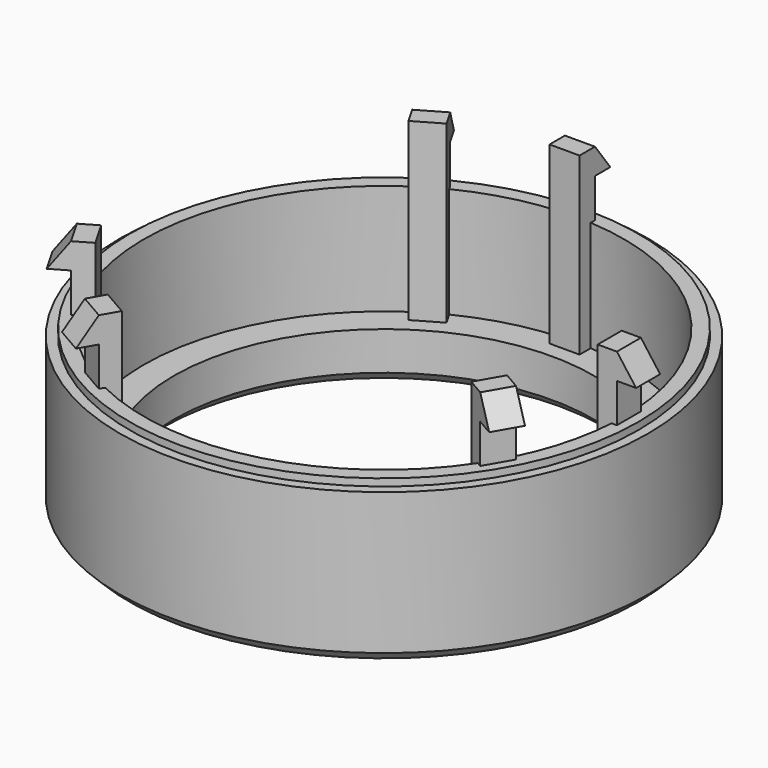
from build123d import *

# Parameters (mm, degrees)
F0_R      = 26.924
F1_DEPTH  = 16.764
F0_R_2    = 27.94
F2_DEPTH  = 16.002
F0_R_3    = 22.225
F3_DEPTH  = 5.08
F4_SIZE   = 1.016
F0_W      = 3.175
F0_H      = 1.016
F5_DEPTH  = 23.622
F7_DEPTH  = 1.5875
F8_COUNT  = 3
F9_COUNT  = 2
F9_ANGLE  = 30
F10_COUNT = 3


with BuildPart() as f1:
    # F0 (on Top) → F1 (new body)
    with BuildSketch(Plane.XY):
        Circle(F0_R)
        with BuildLine():
            ThreePointArc((1.5875, 25.3503420835), (18.5132722661, 17.3901912008), (25.4, 0))
            ThreePointArc((25.4, 0), (-17.3901912008, -18.5132722661), (-1.5875, 25.3503420835))
            Line((-1.5875, 25.3503420835), (-1.5875, 25.908))
            Line((-1.5875, 25.908), (1.5875, 25.908))
            Line((1.5875, 25.908), (1.5875, 25.3503420835))
        make_face(mode=Mode.SUBTRACT)
        with BuildLine():
            ThreePointArc((-1.5875, 25.3503420835), (0, 25.4), (1.5875, 25.3503420835))
            Line((1.5875, 25.3503420835), (1.5875, 25.908))
            Line((1.5875, 25.908), (-1.5875, 25.908))
            Line((-1.5875, 25.908), (-1.5875, 25.3503420835))
        make_face()
    extrude(amount=F1_DEPTH)

    # F0 (on Top) → F2 (join)
    with BuildSketch(Plane.XY):
        Circle(F0_R_2)
        Circle(F0_R, mode=Mode.SUBTRACT)
    extrude(amount=F2_DEPTH)

    # F0 (on Top) → F3 (join)
    with BuildSketch(Plane.XY):
        with BuildLine():
            Line((1.5875, 24.892), (1.5875, 25.3503420835))
            ThreePointArc((1.5875, 25.3503420835), (0, 25.4), (-1.5875, 25.3503420835))
            Line((-1.5875, 25.3503420835), (-1.5875, 24.892))
            Line((-1.5875, 24.892), (1.5875, 24.892))
        make_face()
        with BuildLine():
            ThreePointArc((-1.5875, 25.3503420835), (-17.3901912008, -18.5132722661), (25.4, 0))
            ThreePointArc((25.4, 0), (18.5132722661, 17.3901912008), (1.5875, 25.3503420835))
            Line((1.5875, 25.3503420835), (1.5875, 24.892))
            Line((1.5875, 24.892), (1.5875, 23.876))
            Line((1.5875, 23.876), (-1.5875, 23.876))
            Line((-1.5875, 23.876), (-1.5875, 24.892))
            Line((-1.5875, 24.892), (-1.5875, 25.3503420835))
        make_face()
        Circle(F0_R_3, mode=Mode.SUBTRACT)
    extrude(amount=F3_DEPTH)

    # F4
    f4_edges = [f1.edges().sort_by_distance(p)[0] for p in [
        (-27.94, 0, 0),
        (-22.225, 0, 0),
    ]]
    chamfer(f4_edges, length=F4_SIZE)

    # F0 (on Top) → F5 (join)
    with BuildSketch(Plane.XY):
        with BuildLine():
            ThreePointArc((-1.5875, 25.3503420835), (0, 25.4), (1.5875, 25.3503420835))
            Line((1.5875, 25.3503420835), (1.5875, 25.908))
            Line((1.5875, 25.908), (-1.5875, 25.908))
            Line((-1.5875, 25.908), (-1.5875, 25.3503420835))
        make_face()
        with BuildLine():
            Line((1.5875, 24.892), (1.5875, 25.3503420835))
            ThreePointArc((1.5875, 25.3503420835), (0, 25.4), (-1.5875, 25.3503420835))
            Line((-1.5875, 25.3503420835), (-1.5875, 24.892))
            Line((-1.5875, 24.892), (1.5875, 24.892))
        make_face()
        with Locations((0, 24.384)):
            Rectangle(F0_W, F0_H)
    extrude(amount=F5_DEPTH)

    # F6 (on Right) → F7 (join, symmetric)
    with BuildSketch(Plane.YZ):
        Polygon((25.908, 20.8915), (27.94, 20.8915), (25.908, 23.622), align=None)
    extrude(amount=F7_DEPTH, both=True)

    # F8: F1 ×3 about axis
    f8_axis = Axis((0, 0, 10.7297506183), (0, 0, 1))


with BuildPart() as f1_1:
    add(f1.part)
    for i in range(1, F8_COUNT):
        add(f1.part.rotate(f8_axis, i * 360 / F8_COUNT))

    # F9: F1 ×2 about axis
    f9_axis = Axis((0, 0, 10.7297506183), (0, 0, 1))


with BuildPart() as f1_2:
    add(f1_1.part)
    for i in range(1, F9_COUNT):
        add(f1_1.part.rotate(f9_axis, i * F9_ANGLE / (F9_COUNT - 1)))

    # F10: F1 ×3 about axis
    f10_axis = Axis((0, 0, 10.7297506183), (0, 0, 1))


with BuildPart() as f1_3:
    add(f1_2.part)
    for i in range(1, F10_COUNT):
        add(f1_2.part.rotate(f10_axis, i * 360 / F10_COUNT))


solid = f1_3.part
